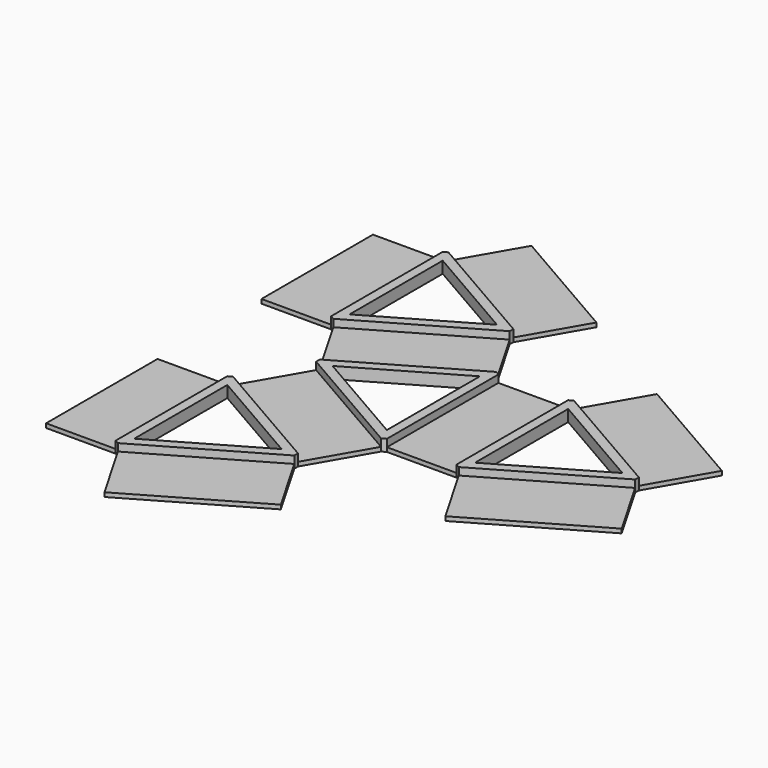
from build123d import *

# Parameters (mm, degrees)
F0_W     = 15
F0_H     = 30
F1_DEPTH = 0.9
F2_DEPTH = 2.5


with BuildPart() as f1:
    # F0 (on Top) → F1 (new body)
    with BuildSketch(Plane.XY):
        Polygon((-9.660293, -0.23511), (-17.160293, 12.755271), (-43.141055, -2.244729), (-35.641055, -15.23511), align=None)
        with Locations((-51.50708, 13.255271)):
            Rectangle(F0_W, F0_H)
        Polygon((-17.160293, 13.755271), (-9.660293, 26.745652), (-35.641055, 41.745652), (-43.141055, 28.755271), align=None)
        Polygon((33.05252, 41.745652), (7.071758, 26.745652), (14.571758, 13.755271), (40.55252, 28.755271), align=None)
        with Locations((-1.294268, 42.245652)):
            Rectangle(F0_W, F0_H)
        Polygon((14.571758, 70.736033), (7.071758, 57.745652), (33.05252, 42.745652), (40.55252, 55.736033), align=None)
        Polygon((-35.641055, 42.745652), (-9.660293, 57.745652), (-17.160293, 70.736033), (-43.141055, 55.736033), align=None)
        Polygon((-43.141055, 86.736033), (-17.160293, 71.736033), (-9.660293, 84.726414), (-35.641055, 99.726414), align=None)
        with Locations((-51.50708, 71.236033)):
            Rectangle(F0_W, F0_H)
    extrude(amount=F1_DEPTH)


with BuildPart() as f2:
    # F0 (on Top) → F2 (new body)
    with BuildSketch(Plane.XY):
        Polygon((-17.160293, 12.755271), (-17.160293, 13.755271), (-43.141055, 28.755271), (-44.00708, 28.255271), (-44.00708, -1.744729), (-43.141055, -2.244729), align=None)
        Polygon((-42.006976, 25.790989), (-20.294476, 13.255271), (-42.006976, 0.719553), align=None, mode=Mode.SUBTRACT)
        Polygon((-8.794268, 27.245652), (-8.794268, 57.245652), (-9.660293, 57.745652), (-35.641055, 42.745652), (-35.641055, 41.745652), (-9.660293, 26.745652), align=None)
        Polygon((-32.506872, 42.245652), (-10.794372, 54.78137), (-10.794372, 29.709935), align=None, mode=Mode.SUBTRACT)
        Polygon((7.071758, 57.745652), (6.205732, 57.245652), (6.205732, 27.245652), (7.071758, 26.745652), (33.05252, 41.745652), (33.05252, 42.745652), align=None)
        Polygon((8.205837, 29.709935), (8.205837, 54.78137), (29.918337, 42.245652), align=None, mode=Mode.SUBTRACT)
        Polygon((-43.141055, 55.736033), (-17.160293, 70.736033), (-17.160293, 71.736033), (-43.141055, 86.736033), (-44.00708, 86.236033), (-44.00708, 56.236033), align=None)
        Polygon((-20.294476, 71.236033), (-42.006976, 58.700316), (-42.006976, 83.771751), align=None, mode=Mode.SUBTRACT)
    extrude(amount=F2_DEPTH)


solid = Compound([f1.part, f2.part])
